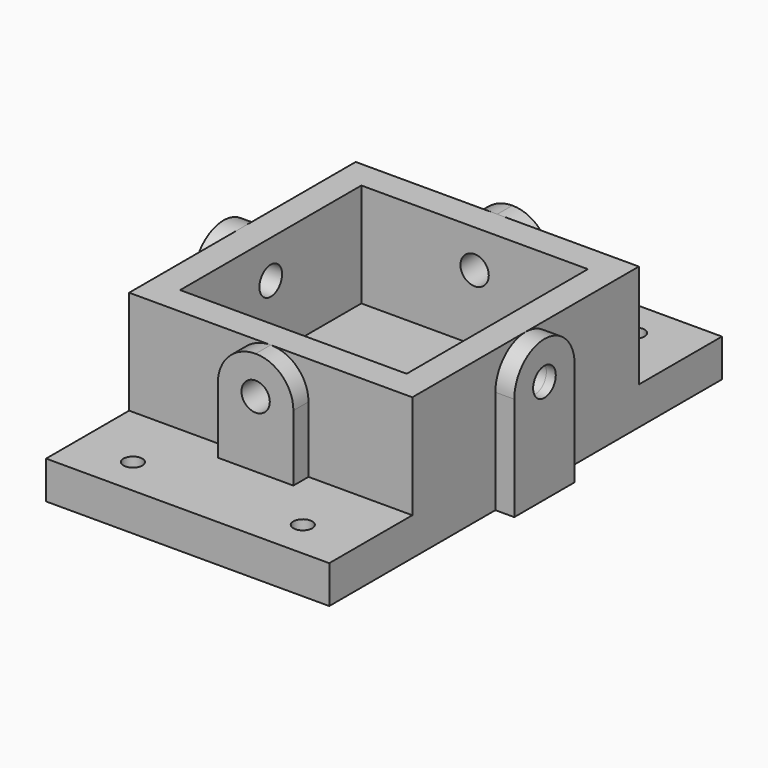
from build123d import *

# Parameters (mm, degrees)
F1_DEPTH = 165.1
F0_W     = 19.05
F0_H     = 69.85
F0_R     = 9.525
F2_DEPTH = 95.25
F3_DEPTH = 107.95
F4_R     = 9.525
F5_DEPTH = 107.95
F6_DEPTH = 76.2
F7_DEPTH = 101.6
F8_R     = 6.35
F9_DEPTH = 95.251


with BuildPart() as f1:
    # F0 (on Front) → F1 (new body, symmetric)
    with BuildSketch(Plane.XZ):
        Polygon((-76.2, 25.4), (-95.25, 25.4), (-95.25, 0), (95.25, 0), (95.25, 25.4), (76.2, 25.4), (25.4, 25.4), (-25.4, 25.4), align=None)
    extrude(amount=F1_DEPTH, both=True)

    # F0 (on Front) → F2 (join, symmetric)
    with BuildSketch(Plane.XZ):
        with Locations((-85.725, 60.325)):
            Rectangle(F0_W, F0_H)
        with BuildLine():
            Line((-76.2, 95.25), (-76.2, 25.4))
            Line((-76.2, 25.4), (-25.4, 25.4))
            Line((-25.4, 25.4), (-25.4, 69.85))
            ThreePointArc((-25.4, 69.85), (-17.9605122421, 87.8105122421), (0, 95.25))
            Line((0, 95.25), (-76.2, 95.25))
        make_face()
        with BuildLine():
            Line((-25.4, 69.85), (-25.4, 25.4))
            Line((-25.4, 25.4), (25.4, 25.4))
            Line((25.4, 25.4), (25.4, 69.85))
            ThreePointArc((25.4, 69.85), (17.9605122421, 87.8105122421), (0, 95.25))
            ThreePointArc((0, 95.25), (-17.9605122421, 87.8105122421), (-25.4, 69.85))
        make_face()
        with Locations((0, 69.85)):
            Circle(F0_R, mode=Mode.SUBTRACT)
        with BuildLine():
            Line((25.4, 69.85), (25.4, 25.4))
            Line((25.4, 25.4), (76.2, 25.4))
            Line((76.2, 25.4), (76.2, 95.25))
            Line((76.2, 95.25), (0, 95.25))
            ThreePointArc((0, 95.25), (17.9605122421, 87.8105122421), (25.4, 69.85))
        make_face()
        with Locations((85.725, 60.325)):
            Rectangle(F0_W, F0_H)
    extrude(amount=F2_DEPTH, both=True)

    # F0 (on Front) → F3 (join, symmetric)
    with BuildSketch(Plane.XZ):
        with BuildLine():
            Line((-25.4, 69.85), (-25.4, 25.4))
            Line((-25.4, 25.4), (25.4, 25.4))
            Line((25.4, 25.4), (25.4, 69.85))
            ThreePointArc((25.4, 69.85), (17.9605122421, 87.8105122421), (0, 95.25))
            ThreePointArc((0, 95.25), (-17.9605122421, 87.8105122421), (-25.4, 69.85))
        make_face()
        with Locations((0, 69.85)):
            Circle(F0_R, mode=Mode.SUBTRACT)
    extrude(amount=F3_DEPTH, both=True)

    # F4 (on Right) → F5 (join, symmetric)
    with BuildSketch(Plane.YZ):
        with BuildLine():
            Line((25.4, 0), (25.4, 69.85))
            ThreePointArc((25.4, 69.85), (0, 95.25), (-25.4, 69.85))
            Line((-25.4, 69.85), (-25.4, 0))
            Line((-25.4, 0), (25.4, 0))
        make_face()
        with Locations((0, 69.85)):
            Circle(F4_R, mode=Mode.SUBTRACT)
    extrude(amount=F5_DEPTH, both=True)

    # F0 (on Front) → F6 (cut, symmetric)
    with BuildSketch(Plane.XZ):
        with BuildLine():
            Line((-76.2, 95.25), (-76.2, 25.4))
            Line((-76.2, 25.4), (-25.4, 25.4))
            Line((-25.4, 25.4), (-25.4, 69.85))
            ThreePointArc((-25.4, 69.85), (-17.9605122421, 87.8105122421), (0, 95.25))
            Line((0, 95.25), (-76.2, 95.25))
        make_face()
        with BuildLine():
            Line((-25.4, 69.85), (-25.4, 25.4))
            Line((-25.4, 25.4), (25.4, 25.4))
            Line((25.4, 25.4), (25.4, 69.85))
            ThreePointArc((25.4, 69.85), (17.9605122421, 87.8105122421), (0, 95.25))
            ThreePointArc((0, 95.25), (-17.9605122421, 87.8105122421), (-25.4, 69.85))
        make_face()
        with Locations((0, 69.85)):
            Circle(F0_R, mode=Mode.SUBTRACT)
        with BuildLine():
            Line((25.4, 69.85), (25.4, 25.4))
            Line((25.4, 25.4), (76.2, 25.4))
            Line((76.2, 25.4), (76.2, 95.25))
            Line((76.2, 95.25), (0, 95.25))
            ThreePointArc((0, 95.25), (17.9605122421, 87.8105122421), (25.4, 69.85))
        make_face()
        with Locations((0, 69.85)):
            Circle(F0_R)
    extrude(amount=F6_DEPTH, both=True, mode=Mode.SUBTRACT)

    # F4 (on Right) → F7 (cut, symmetric)
    with BuildSketch(Plane.YZ):
        with Locations((0, 69.85)):
            Circle(F4_R)
    extrude(amount=F7_DEPTH, both=True, mode=Mode.SUBTRACT)

    # F8 (on face) → F9 (cut, through all)
    with BuildSketch(Plane(origin=(0, 0, 0), x_dir=(1, 0, 0), z_dir=(0, 0, -1))):
        with Locations((-57.15, 139.7)):
            Circle(F8_R)
        with Locations((57.15, 139.7)):
            Circle(F8_R)
        with Locations((57.15, -139.7)):
            Circle(F8_R)
        with Locations((-57.15, -139.7)):
            Circle(F8_R)
    extrude(amount=-F9_DEPTH, mode=Mode.SUBTRACT)


solid = f1.part
